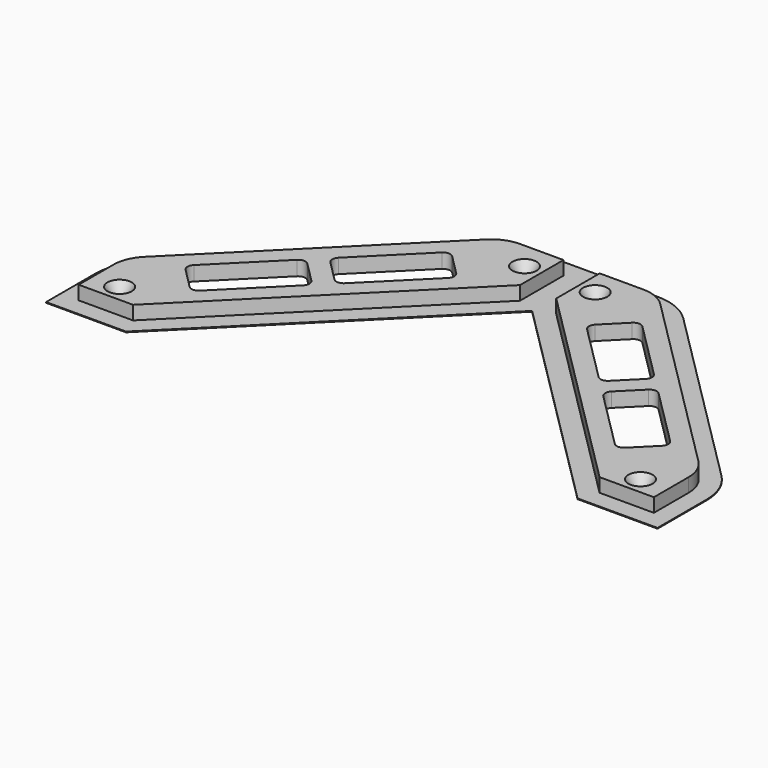
from build123d import *

# Parameters (mm, degrees)
F0_R     = 1.75
F1_DEPTH = 4
F2_R     = 10
F3_R     = 2
F4_SIZE2 = 1.6
F4_SIZE  = 2.8
F8_DEPTH = 0.2


with BuildPart() as f1:
    # F0 (on Top) → F1 (new body)
    with BuildSketch(Plane.XY):
        Polygon((16.113648, 0), (0, 0), (0, -15), (59.4, -74.3), (74.4, -74.3), (74.4, -58.188227), align=None)
        with Locations((66.9, -69.55)):
            Circle(F0_R, mode=Mode.SUBTRACT)
        Polygon((43.485104, -34.390495), (62.176472, -53.050396), (53.698342, -61.542823), (35.006974, -42.882922), align=None, mode=Mode.SUBTRACT)
        Polygon((31.468463, -39.350367), (12.777095, -20.690466), (21.255225, -12.198039), (39.946593, -30.857941), align=None, mode=Mode.SUBTRACT)
        with Locations((4.75, -7.5)):
            Circle(F0_R, mode=Mode.SUBTRACT)
    extrude(amount=F1_DEPTH)

    # F2
    f2_edges = [f1.edges().sort_by_distance(p)[0] for p in [
        (16.113648, 0, 2),
        (74.4, -58.188227, 2),
    ]]
    fillet(f2_edges, radius=F2_R)

    # F3
    f3_edges = [f1.edges().sort_by_distance(p)[0] for p in [
        (21.255225, -12.198039, 2),
        (12.777095, -20.690466, 2),
        (39.946593, -30.857941, 2),
        (31.468463, -39.350367, 2),
        (53.698342, -61.542823, 2),
        (62.176472, -53.050396, 2),
        (43.485104, -34.390495, 2),
        (35.006974, -42.882922, 2),
    ]]
    fillet(f3_edges, radius=F3_R)

    # F4
    f4_edges = [f1.edges().sort_by_distance(p)[0] for p in [
        (3, -7.5, 4),
        (65.15, -69.55, 4),
    ]]
    chamfer(f4_edges, length=F4_SIZE, length2=F4_SIZE2)


with BuildPart() as f6_1:
    # F6: instance of F1
    add(f1.part.mirror(Plane.YZ.offset(-5)))


with BuildPart() as f8:
    # F7 (on Top) → F8 (new body)
    with BuildSketch(Plane.XY):
        with BuildLine():
            Line((-32.574108, 0.615534), (-84.997662, -51.719765))
            ThreePointArc((-84.997662, -51.719765), (-88.255774, -56.58921), (-89.4, -62.335299))
            Line((-89.4, -62.335299), (-89.4, -79.3))
            Line((-89.4, -79.3), (-67.331399, -79.3))
            Line((-67.331399, -79.3), (-5, -17.073536))
            Line((-5, -17.073536), (57.331399, -79.3))
            Line((57.331399, -79.3), (79.4, -79.3))
            Line((79.4, -79.3), (79.4, -62.335299))
            ThreePointArc((79.4, -62.335299), (78.255774, -56.58921), (74.997662, -51.719765))
            Line((74.997662, -51.719765), (22.574108, 0.615534))
            ThreePointArc((22.574108, 0.615534), (17.71086, 3.86061), (11.976446, 5))
            Line((11.976446, 5), (-21.976446, 5))
            ThreePointArc((-21.976446, 5), (-27.71086, 3.86061), (-32.574108, 0.615534))
        make_face()
        with BuildLine():
            Line((-69.4, -74.3), (-84.4, -74.3))
            Line((-84.4, -74.3), (-84.4, -62.335299))
            ThreePointArc((-84.4, -62.335299), (-83.637183, -58.504573), (-81.465108, -55.258276))
            Line((-81.465108, -55.258276), (-29.041554, -2.922978))
            ThreePointArc((-29.041554, -2.922978), (-25.799388, -0.759594), (-21.976446, 0))
            Line((-21.976446, 0), (-10, 0))
            Line((-10, 0), (-10, -15))
            Line((-10, -15), (-69.4, -74.3))
        make_face(mode=Mode.SUBTRACT)
        with BuildLine():
            Line((0, -15), (0, 0))
            Line((0, 0), (11.976446, 0))
            ThreePointArc((11.976446, 0), (15.799388, -0.759594), (19.041554, -2.922978))
            Line((19.041554, -2.922978), (71.465108, -55.258276))
            ThreePointArc((71.465108, -55.258276), (73.637183, -58.504573), (74.4, -62.335299))
            Line((74.4, -62.335299), (74.4, -74.3))
            Line((74.4, -74.3), (59.4, -74.3))
            Line((59.4, -74.3), (0, -15))
        make_face(mode=Mode.SUBTRACT)
    extrude(amount=F8_DEPTH)


solid = Compound([f1.part, f6_1.part, f8.part])
